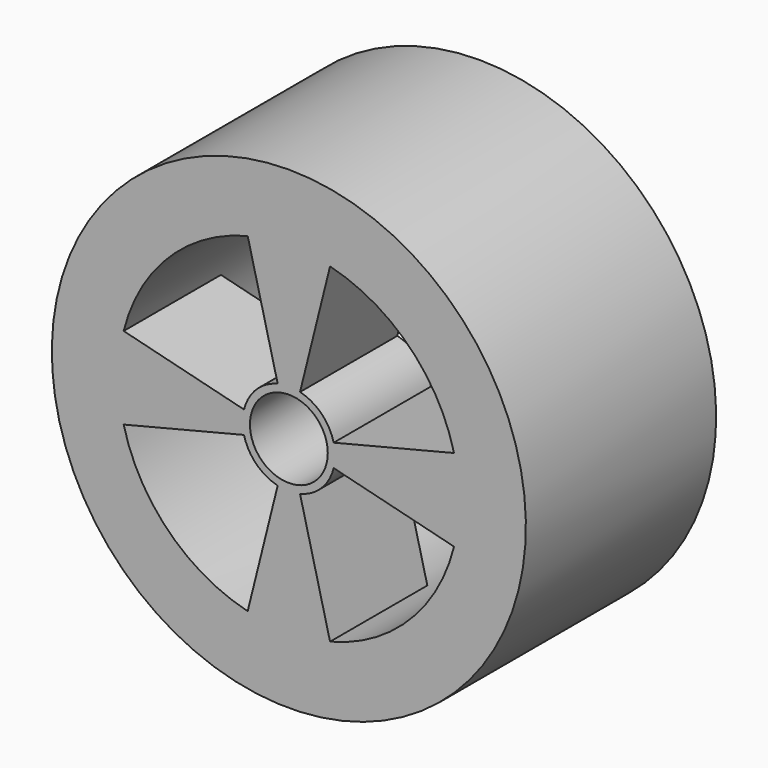
from build123d import *

# Parameters (mm, degrees)
F2_R     = 2.032133
F3_DEPTH = 6.35


with BuildPart() as f1:
    # F0 (on Right) → F1 (revolve)
    with BuildSketch(Plane.YZ):
        Polygon((-29.244625, 23.807742), (-29.244625, 22.225), (-29.244625, 20.32), (-16.823784, 20.32), (-16.823784, 22.225), (-16.823784, 23.807742), align=None)
    revolve(axis=Axis((0, -22.716704, 11.43), (0, 1, 0)))

    # F2 (on face) → F3 (join)
    with BuildSketch(Plane.XZ.offset(29.244625)):
        with BuildLine():
            ThreePointArc((0.58379, 9.088548), (0, 9.016867), (-0.58379, 9.088548))
            Line((-0.58379, 9.088548), (-2.150686, 2.804071))
            ThreePointArc((-2.150686, 2.804071), (0, 2.54), (2.150686, 2.804071))
            Line((2.150686, 2.804071), (0.58379, 9.088548))
        make_face()
        with BuildLine():
            ThreePointArc((-2.341452, 10.84621), (-2.413133, 11.43), (-2.341452, 12.01379))
            Line((-2.341452, 12.01379), (-8.625929, 13.580686))
            ThreePointArc((-8.625929, 13.580686), (-8.89, 11.43), (-8.625929, 9.279314))
            Line((-8.625929, 9.279314), (-2.341452, 10.84621))
        make_face()
        with BuildLine():
            Line((-2.150686, 20.055929), (-0.58379, 13.771452))
            ThreePointArc((-0.58379, 13.771452), (0, 13.843133), (0.58379, 13.771452))
            Line((0.58379, 13.771452), (2.150686, 20.055929))
            ThreePointArc((2.150686, 20.055929), (0, 20.32), (-2.150686, 20.055929))
        make_face()
        with BuildLine():
            Line((8.625929, 13.580686), (2.341452, 12.01379))
            ThreePointArc((2.341452, 12.01379), (2.395146, 11.724087), (2.413133, 11.43))
            ThreePointArc((2.413133, 11.43), (2.395146, 11.135913), (2.341452, 10.84621))
            Line((2.341452, 10.84621), (8.625929, 9.279314))
            ThreePointArc((8.625929, 9.279314), (8.823735, 10.346582), (8.89, 11.43))
            ThreePointArc((8.89, 11.43), (8.823735, 12.513418), (8.625929, 13.580686))
        make_face()
        with BuildLine():
            ThreePointArc((0.58379, 13.771452), (0, 13.843133), (-0.58379, 13.771452))
            ThreePointArc((-0.58379, 13.771452), (-1.706342, 13.136342), (-2.341452, 12.01379))
            ThreePointArc((-2.341452, 12.01379), (-2.413133, 11.43), (-2.341452, 10.84621))
            ThreePointArc((-2.341452, 10.84621), (-1.706342, 9.723658), (-0.58379, 9.088548))
            ThreePointArc((-0.58379, 9.088548), (0, 9.016867), (0.58379, 9.088548))
            ThreePointArc((0.58379, 9.088548), (1.706342, 9.723658), (2.341452, 10.84621))
            ThreePointArc((2.341452, 10.84621), (2.395146, 11.135913), (2.413133, 11.43))
            ThreePointArc((2.413133, 11.43), (2.395146, 11.724087), (2.341452, 12.01379))
            ThreePointArc((2.341452, 12.01379), (1.706342, 13.136342), (0.58379, 13.771452))
        make_face()
        with Locations((0, 11.43)):
            Circle(F2_R, mode=Mode.SUBTRACT)
    extrude(amount=-F3_DEPTH)


solid = f1.part
